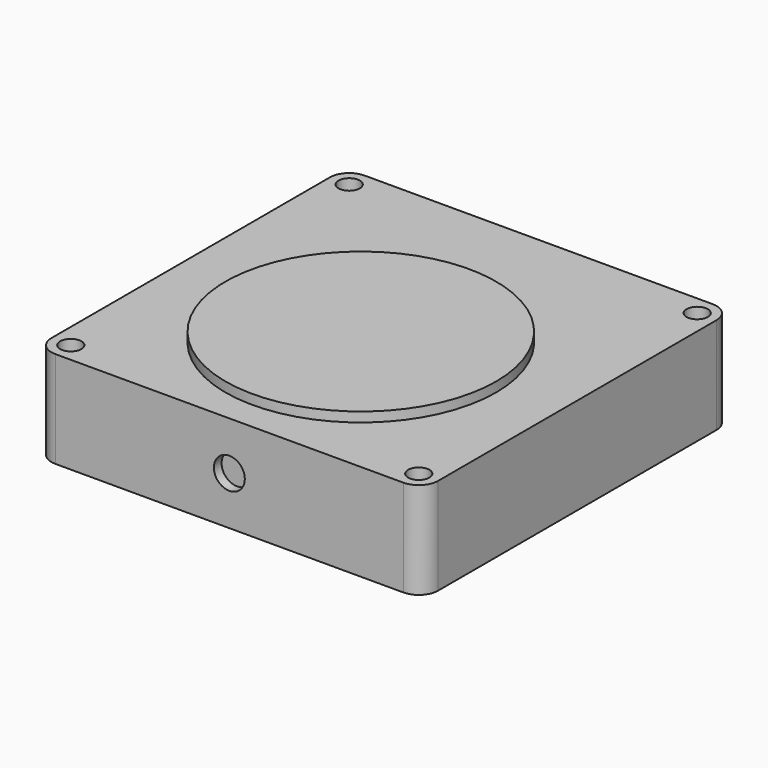
from build123d import *

# Parameters (mm, degrees)
F0_W     = 40
F0_H     = 40
F1_DEPTH = 10
F2_D     = 2.2
F2_DEPTH = 40
F3_R     = 2
F4_R     = 14
F5_DEPTH = 1
F6_W     = 33.6
F6_H     = 7.6
F7_DEPTH = 5
F8_R     = 1.6
F9_DEPTH = 1


with BuildPart() as f1:
    # F0 (on Top) → F1 (new body)
    with BuildSketch(Plane.XY):
        Rectangle(F0_W, F0_H)
    extrude(amount=F1_DEPTH)

    # F2
    with Locations(Plane(origin=(0, 0, 0), x_dir=(1, 0, 0), z_dir=(0, 0, -1))):
        with Locations((-18, -18), (-18, 18), (18, 18), (18, -18)):
            Hole(F2_D / 2, depth=F2_DEPTH)

    # F3
    f3_edges = [f1.edges().sort_by_distance(p)[0] for p in [
        (-20, -20, 5),
        (-20, 20, 5),
        (20, -20, 5),
        (20, 20, 5),
    ]]
    fillet(f3_edges, radius=F3_R)

    # F4 (on face) → F5 (join)
    with BuildSketch(Plane.XY.offset(10)):
        with Locations((0, -3)):
            Circle(F4_R)
    extrude(amount=F5_DEPTH)

    # F6 (on face) → F7 (cut)
    with BuildSketch(Plane(origin=(-20, 0, 0), x_dir=(0, -1, 0), z_dir=(-1, 0, 0))):
        with Locations((0, 5)):
            Rectangle(F6_W, F6_H)
    extrude(amount=-F7_DEPTH, mode=Mode.SUBTRACT)

    # F8 (on face) → F9 (cut)
    with BuildSketch(Plane.XZ.offset(20)):
        with Locations((0, 5)):
            Circle(F8_R)
    extrude(amount=-F9_DEPTH, mode=Mode.SUBTRACT)


solid = f1.part
